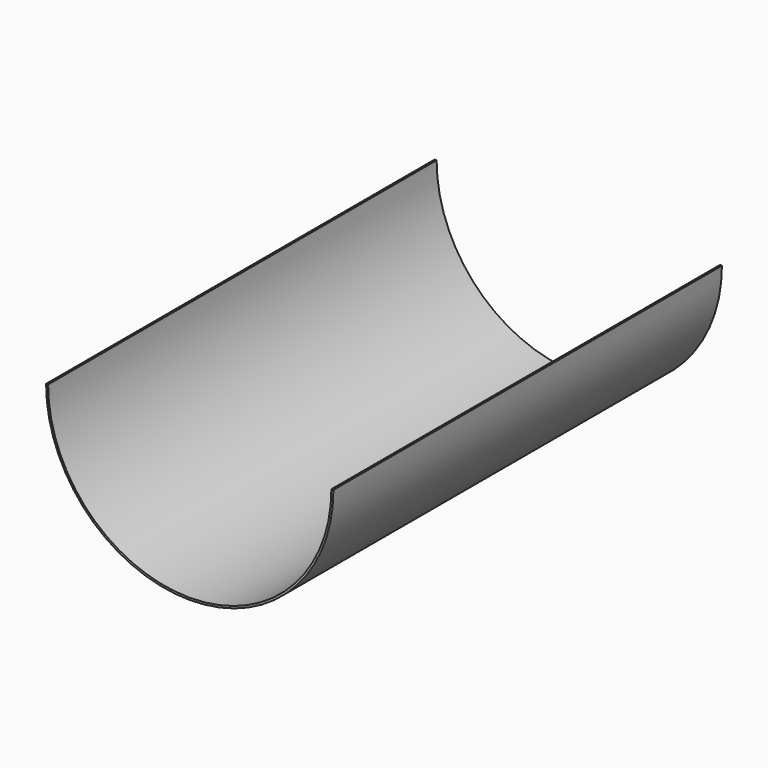
from build123d import *

# Parameters (mm, degrees)
F1_DEPTH = 152.4
F2_DEPTH = 152.4


with BuildPart() as f1:
    # F0 (on Front) → F1 (new body)
    with BuildSketch(Plane.XZ):
        with BuildLine():
            Line((-88.9, 0), (-90.17, 0))
            ThreePointArc((-90.17, 0), (0, -90.17), (90.17, 0))
            Line((90.17, 0), (88.9, 0))
            ThreePointArc((88.9, 0), (0, -88.9), (-88.9, 0))
        make_face()
    extrude(amount=F1_DEPTH)

    # F1_face (on face) → F2 (join)
    with BuildSketch(Plane(origin=(0, 0, -57.000707), x_dir=(1, 0, 0), z_dir=(0, 1, 0))):
        with BuildLine():
            ThreePointArc((-88.9, -57.000707), (0, 31.899293), (88.9, -57.000707))
            Line((88.9, -57.000707), (90.17, -57.000707))
            ThreePointArc((90.17, -57.000707), (0, 33.169293), (-90.17, -57.000707))
            Line((-90.17, -57.000707), (-88.9, -57.000707))
        make_face()
    extrude(amount=F2_DEPTH)


solid = f1.part
